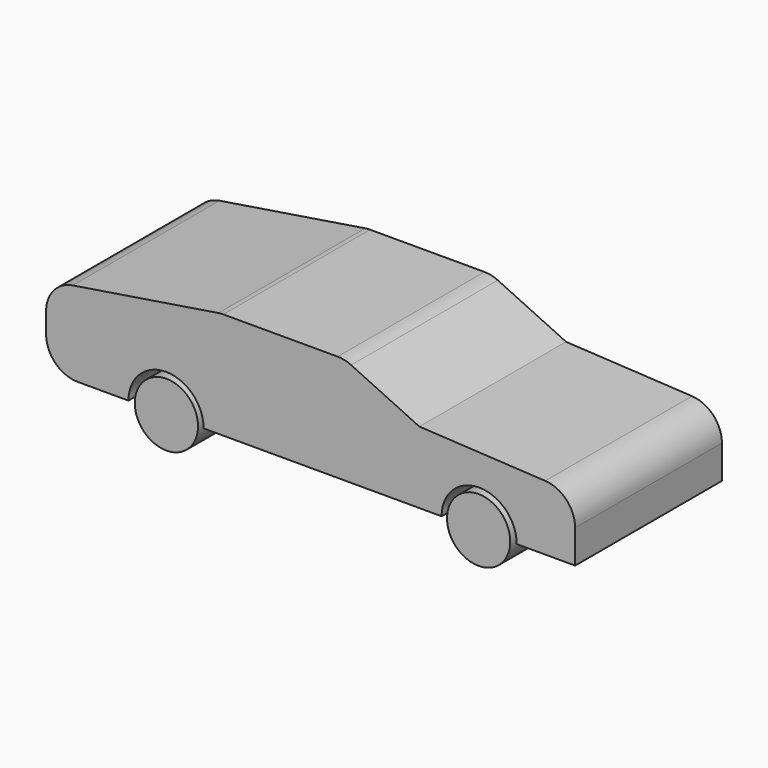
from build123d import *

# Parameters (mm, degrees)
F1_DEPTH = 14.732
F2_R     = 5.08
F3_DEPTH = 14.732
F4_R     = 5.08


with BuildPart() as f1:
    # F0 (on Front) → F1 (new body, symmetric)
    with BuildSketch(Plane.XZ):
        with BuildLine():
            Line((-41.6292596983, 12.7), (-41.6292596983, 0))
            Line((-41.6292596983, 0), (-28.3958129411, 0))
            ThreePointArc((-28.3958129411, 0), (-22.3633129411, 6.0325), (-16.3308129411, 0))
            Line((-16.3308129411, 0), (21.8852206534, 0))
            ThreePointArc((21.8852206534, 0), (27.9177206534, 6.0325), (33.9502206534, 0))
            Line((33.9502206534, 0), (43.3337403017, 0))
            Line((43.3337403017, 0), (43.3337403017, 10.16))
            Line((43.3337403017, 10.16), (18.307332794, 11.5266916706))
            Line((18.307332794, 11.5266916706), (6.327583626, 17.145))
            Line((6.327583626, 17.145), (-13.5646342155, 17.145))
            Line((-13.5646342155, 17.145), (-41.6292596983, 12.7))
        make_face()
    extrude(amount=F1_DEPTH, both=True)

    # F4
    f4_edges = [f1.edges().sort_by_distance(p)[0] for p in [
        (-41.62926, 0, 12.7),
        (43.33374, 0, 10.16),
        (6.327584, 0, 17.145),
        (-13.564634, 0, 17.145),
        (-41.62926, 0, 0),
    ]]
    fillet(f4_edges, radius=F4_R)


with BuildPart() as f3:
    # F2 (on Front) → F3 (new body, symmetric)
    with BuildSketch(Plane.XZ):
        with Locations((-22.3054196686, 0)):
            Circle(F2_R)
    extrude(amount=F3_DEPTH, both=True)


with BuildPart() as f3b:
    # F2 (on Front) → F3, piece 2 (new body, symmetric)
    with BuildSketch(Plane.XZ):
        with Locations((27.8324261308, 0)):
            Circle(F2_R)
    extrude(amount=F3_DEPTH, both=True)


solid = Compound([f1.part, f3.part, f3b.part])
